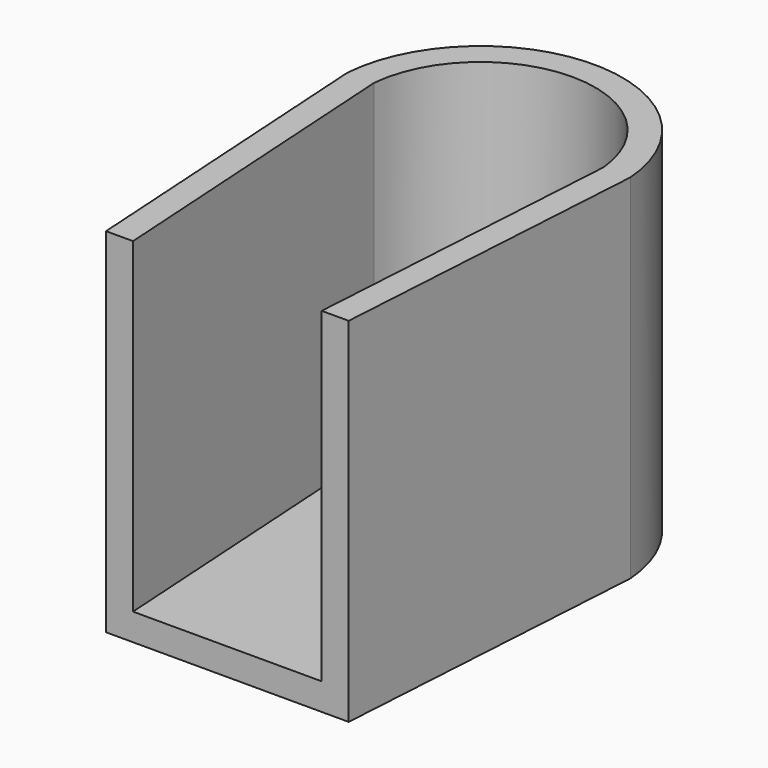
from build123d import *

# Parameters (mm, degrees)
F1_DEPTH = 12.1
F2_T     = 1
F3_W     = 13.9636243694
F3_H     = 14.0063923318
F4_DEPTH = 25


with BuildPart() as f1:
    # F0 (on Top) → F1 (new body)
    with BuildSketch(Plane.XY):
        with BuildLine():
            Line((-4.25, 12.1212695545), (-3.5, 0))
            Line((-3.5, 0), (3.5, 0))
            Line((3.5, 0), (4.25, 12.1212695545))
            ThreePointArc((4.25, 12.1212695545), (0, 16), (-4.25, 12.1212695545))
        make_face()
    extrude(amount=F1_DEPTH)

    # F2
    f2_openings = [f1.faces().sort_by_distance(p)[0] for p in [
        (0, 7.847048, 12.1),
    ]]
    offset(amount=F2_T, openings=f2_openings, kind=Kind.INTERSECTION)

    # F3 (on face) → F4 (cut)
    with BuildSketch(Plane(origin=(0, 0, 0), x_dir=(-1, 0, 0), z_dir=(0, 1, 0))):
        with Locations((-0.2180829179, 5.7105472079)):
            Rectangle(F3_W, F3_H)
    extrude(amount=-F4_DEPTH, mode=Mode.SUBTRACT)


solid = f1.part
